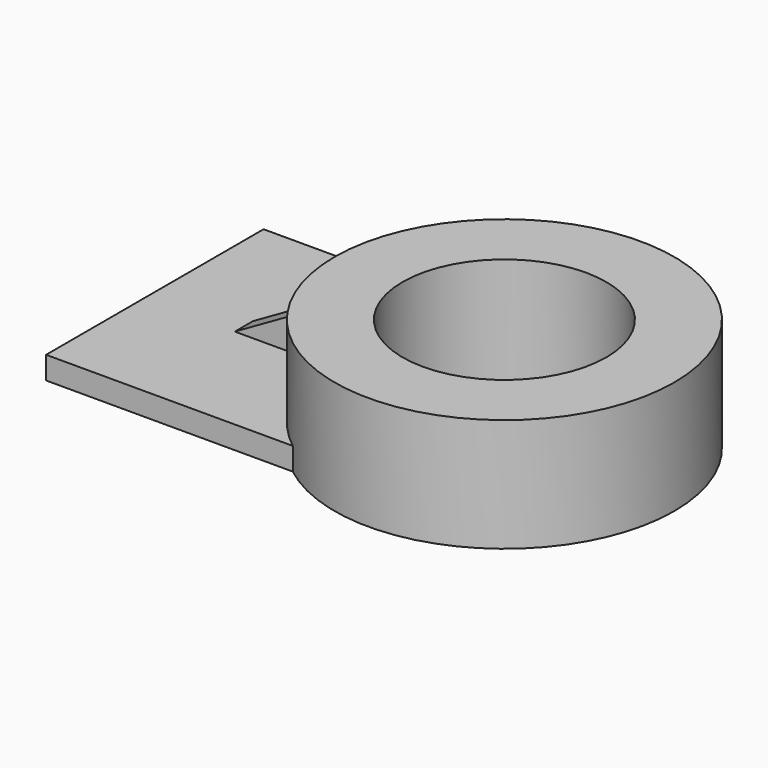
from build123d import *

# Parameters (mm, degrees)
F0_W     = 69.85
F0_H     = 76.2
F1_DEPTH = 6.35
F3_DEPTH = 3.175
F4_R     = 47.625
F4_R_2   = 28.575
F5_DEPTH = 31.75


with BuildPart() as f1:
    # F0 (on Top) → F1 (new body)
    with BuildSketch(Plane.XY):
        with Locations((-34.925, 0.542263)):
            Rectangle(F0_W, F0_H)
    extrude(amount=F1_DEPTH)

    # F2 (on Front) → F3 (join, symmetric)
    with BuildSketch(Plane.XZ):
        Polygon((-44.45, 6.35), (0, 6.35), (0, 31.75), align=None)
    extrude(amount=F3_DEPTH, both=True)

    # F4 (on face) → F5 (join)
    with BuildSketch(Plane(origin=(0, 0, 0), x_dir=(1, 0, 0), z_dir=(0, 0, -1))):
        with Locations((28.575, 0)):
            Circle(F4_R)
        with Locations((28.575, 0)):
            Circle(F4_R_2, mode=Mode.SUBTRACT)
    extrude(amount=-F5_DEPTH)


solid = f1.part
